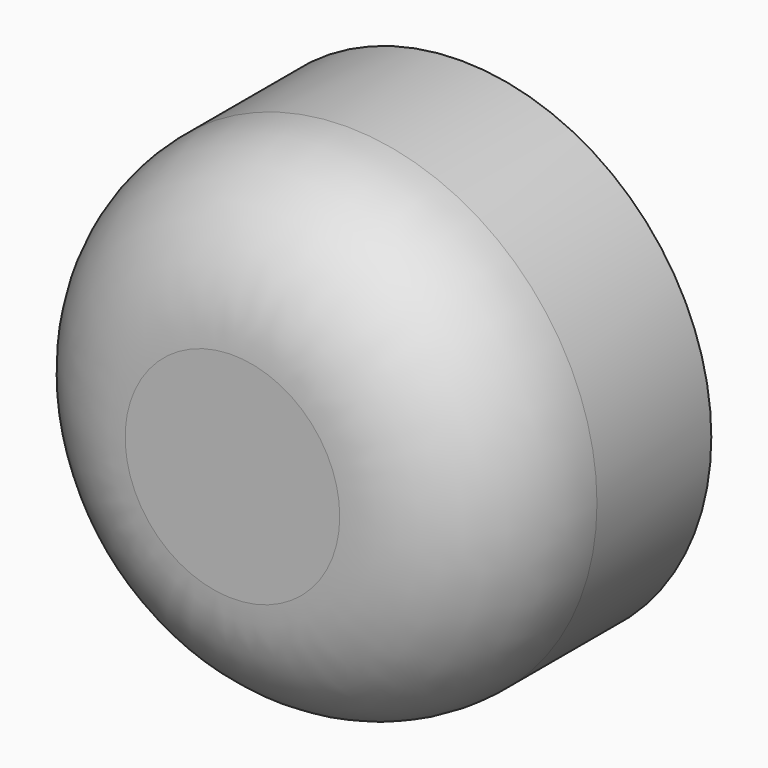
from build123d import *

# Parameters (mm, degrees)
F0_R     = 6.128054
F0_R_2   = 2.25
F1_DEPTH = 7
F2_DEPTH = 5.5
F3_DEPTH = 3.7
F4_R     = 3.5


with BuildPart() as f1:
    # F0 (on Front) → F1 (new body)
    with BuildSketch(Plane.XZ):
        Circle(F0_R)
        Polygon((3.575, 2.064027), (3.575, -2.064027), (0, -4.128054), (-3.575, -2.064027), (-3.575, 2.064027), (0, 4.128054), align=None, mode=Mode.SUBTRACT)
        Polygon((0, -4.128054), (3.575, -2.064027), (3.575, 2.064027), (0, 4.128054), (-3.575, 2.064027), (-3.575, -2.064027), align=None)
        Circle(F0_R_2, mode=Mode.SUBTRACT)
        Circle(F0_R_2)
    extrude(amount=F1_DEPTH)

    # F0 (on Front) → F2 (cut)
    with BuildSketch(Plane.XZ):
        Circle(F0_R_2)
    extrude(amount=F2_DEPTH, mode=Mode.SUBTRACT)

    # F0 (on Front) → F3 (cut)
    with BuildSketch(Plane.XZ):
        Polygon((0, -4.128054), (3.575, -2.064027), (3.575, 2.064027), (0, 4.128054), (-3.575, 2.064027), (-3.575, -2.064027), align=None)
        Circle(F0_R_2, mode=Mode.SUBTRACT)
    extrude(amount=F3_DEPTH, mode=Mode.SUBTRACT)

    # F4
    f4_edges = [f1.edges().sort_by_distance(p)[0] for p in [
        (-6.128054, -7, 0),
    ]]
    fillet(f4_edges, radius=F4_R)


solid = f1.part
